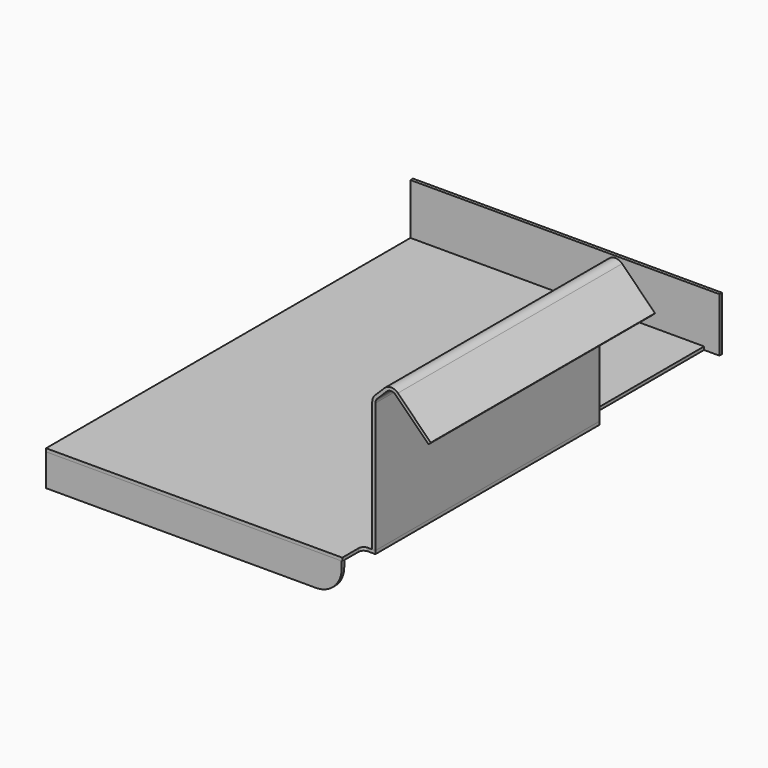
from build123d import *

# Parameters (mm, degrees)
F4_W          = 307.975
F4_H          = 3.175
F6_DEPTH      = 457.2
F5_W          = 294.722265
F5_H          = 31.903833
F7_DEPTH      = 3.175
F8_W          = 3.175
F8_H          = 50.8
F9_DEPTH      = 168.275
F9_DEPTH_BACK = 139.7
F10_DEPTH     = 304.8
F11_DEPTH     = 25.4
F12_W         = 15.207292
F12_H         = 149.225
F13_DEPTH     = 3.175
F14_W         = 12.7
F14_H         = 25.4
F15_DEPTH     = 304.8
F16_R         = 25.4
F17_R         = 5.08


with BuildPart() as f6:
    # F4 (on Front) → F6 (new body)
    with BuildSketch(Plane.XZ):
        with Locations((14.2875, -185.7375)):
            Rectangle(F4_W, F4_H)
    extrude(amount=-F6_DEPTH)

    # F8 (on Right) → F9 (join, two sides)
    with BuildSketch(Plane.YZ) as f9_sk:
        with Locations((455.6125, -158.75)):
            Rectangle(F8_W, F8_H)
    extrude(amount=F9_DEPTH)
    extrude(f9_sk.sketch, amount=-F9_DEPTH_BACK)

    # F12 (on face) → F13 (cut)
    with BuildSketch(Plane(origin=(0, 0, -187.325), x_dir=(1, 0, 0), z_dir=(0, 0, -1))):
        with Locations((160.671354, -379.4125)):
            Rectangle(F12_W, F12_H)
    extrude(amount=-F13_DEPTH, mode=Mode.SUBTRACT)

    # F14 (on Top) → F15 (cut)
    with BuildSketch(Plane.XY):
        with Locations((161.925, 12.7)):
            Rectangle(F14_W, F14_H)
    extrude(amount=-F15_DEPTH, mode=Mode.SUBTRACT)

    # F17
    f17_edges = [f6.edges().sort_by_distance(p)[0] for p in [
        (155.575, 25.4, -185.7375),
    ]]
    fillet(f17_edges, radius=F17_R)


with BuildPart() as f7:
    # F5 (on Front) → F7 (new body)
    with BuildSketch(Plane.XZ):
        with Locations((7.661133, -203.276916)):
            Rectangle(F5_W, F5_H)
    extrude(amount=-F7_DEPTH)

    # F16
    f16_edges = [f7.edges().sort_by_distance(p)[0] for p in [
        (155.022265, 1.5875, -219.228833),
    ]]
    fillet(f16_edges, radius=F16_R)


with BuildPart() as f10:
    # F3 (on Front) → F10 (new body)
    with BuildSketch(Plane.XZ):
        with BuildLine():
            Line((165.1, -54.745384), (165.1, -184.15))
            Line((165.1, -184.15), (168.275, -184.15))
            Line((168.275, -184.15), (168.275, -54.745384))
            ThreePointArc((168.275, -54.745384), (168.758365, -52.315344), (170.134872, -50.255256))
            Line((170.134872, -50.255256), (179.46841, -40.921718))
            ThreePointArc((179.46841, -40.921718), (183.958538, -39.061846), (188.448666, -40.921718))
            Line((188.448666, -40.921718), (221.226601, -73.699653))
            Line((221.226601, -73.699653), (223.471665, -71.454589))
            Line((223.471665, -71.454589), (190.69373, -38.676654))
            ThreePointArc((190.69373, -38.676654), (183.958538, -35.886846), (177.223346, -38.676654))
            Line((177.223346, -38.676654), (167.889808, -48.010192))
            ThreePointArc((167.889808, -48.010192), (165.825047, -51.100324), (165.1, -54.745384))
        make_face()
    extrude(amount=-F10_DEPTH)

    # F3 (on Front) → F11 (cut)
    with BuildSketch(Plane.XZ):
        with BuildLine():
            Line((165.1, -54.745384), (165.1, -184.15))
            Line((165.1, -184.15), (168.275, -184.15))
            Line((168.275, -184.15), (168.275, -54.745384))
            ThreePointArc((168.275, -54.745384), (168.758365, -52.315344), (170.134872, -50.255256))
            Line((170.134872, -50.255256), (179.46841, -40.921718))
            ThreePointArc((179.46841, -40.921718), (183.958538, -39.061846), (188.448666, -40.921718))
            Line((188.448666, -40.921718), (221.226601, -73.699653))
            Line((221.226601, -73.699653), (223.471665, -71.454589))
            Line((223.471665, -71.454589), (190.69373, -38.676654))
            ThreePointArc((190.69373, -38.676654), (183.958538, -35.886846), (177.223346, -38.676654))
            Line((177.223346, -38.676654), (167.889808, -48.010192))
            ThreePointArc((167.889808, -48.010192), (165.825047, -51.100324), (165.1, -54.745384))
        make_face()
    extrude(amount=-F11_DEPTH, mode=Mode.SUBTRACT)


solid = Compound([f6.part, f7.part, f10.part])
